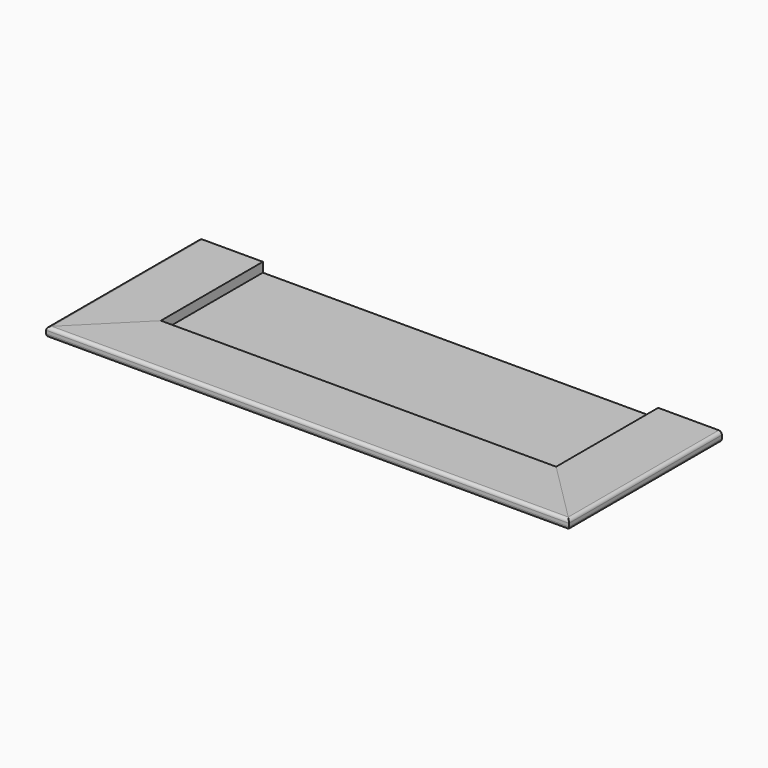
from build123d import *

# Parameters (mm, degrees)
F0_W      = 914.4
F0_H      = 298.45
F1_DEPTH  = 19.05
F2_W      = 9.525
F2_H      = 9.525
F3_DEPTH  = 914.401
F4_W      = 19.05
F4_H      = 9.525
F5_DEPTH  = 298.451
F7_DEPTH  = 19.05
F9_DEPTH  = 19.05
F11_DEPTH = 19.05
F12_R     = 6.35
F12_2_R   = 6.35
F12_3_R   = 6.35


with BuildPart() as f1:
    # F0 (on Top) → F1 (new body)
    with BuildSketch(Plane.XY):
        Rectangle(F0_W, F0_H)
    extrude(amount=F1_DEPTH)

    # F2 (on face) → F3 (cut, through all)
    with BuildSketch(Plane.YZ.offset(457.2)):
        with Locations((144.4625, 4.7625)):
            Rectangle(F2_W, F2_H)
    extrude(amount=-F3_DEPTH, mode=Mode.SUBTRACT)

    # F4 (on face) → F5 (cut, through all)
    with BuildSketch(Plane.XZ.offset(149.225)):
        with Locations((-447.675, 4.7625)):
            Rectangle(F4_W, F4_H)
        with Locations((447.675, 4.7625)):
            Rectangle(F4_W, F4_H)
    extrude(amount=-F5_DEPTH, mode=Mode.SUBTRACT)


with BuildPart() as f7:
    # F6 (on face) → F7 (new body)
    with BuildSketch(Plane.XY.offset(19.05)):
        Polygon((393.7, -104.775), (-393.7, -104.775), (-520.7, -231.775), (520.7, -231.775), align=None)
    extrude(amount=F7_DEPTH)

    # F12
    f12_edges = [f7.edges().sort_by_distance(p)[0] for p in [
        (0, -231.775, 38.1),
        (0, -231.775, 19.05),
    ]]
    fillet(f12_edges, radius=F12_R)


with BuildPart() as f9:
    # F8 (on face) → F9 (new body)
    with BuildSketch(Plane.XY.offset(19.05)):
        Polygon((-393.7, 149.225), (-520.7, 149.225), (-520.7, -231.775), (-393.7, -104.775), align=None)
    extrude(amount=F9_DEPTH)

    # F12#3
    f12_3_edges = [f9.edges().sort_by_distance(p)[0] for p in [
        (-520.7, -41.275, 38.1),
        (-520.7, -41.275, 19.05),
    ]]
    fillet(f12_3_edges, radius=F12_3_R)


with BuildPart() as f11:
    # F10 (on face) → F11 (new body)
    with BuildSketch(Plane.XY.offset(19.05)):
        Polygon((520.7, 149.225), (393.7, 149.225), (393.7, -104.775), (520.7, -231.775), align=None)
    extrude(amount=F11_DEPTH)

    # F12#2
    f12_2_edges = [f11.edges().sort_by_distance(p)[0] for p in [
        (520.7, -41.275, 19.05),
        (520.7, -41.275, 38.1),
    ]]
    fillet(f12_2_edges, radius=F12_2_R)


solid = Compound([f1.part, f7.part, f9.part, f11.part])
